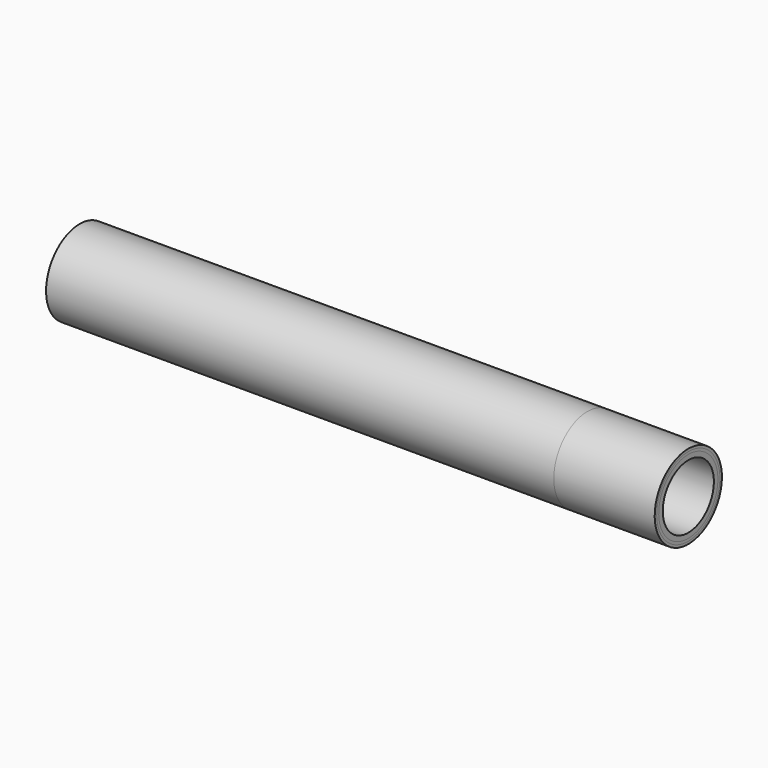
from build123d import *

# Parameters (mm, degrees)
CYLINDER001_R           = 9.5
CYLINDER001_DEPTH       = 156
CYLINDER001_PITCH_ANGLE = -90
CYLINDER_R              = 11
CYLINDER_DEPTH          = 156
CYLINDER_PITCH_ANGLE    = -90
CYLINDER004_R           = 9.5
CYLINDER004_DEPTH       = 25
CYLINDER004_PITCH_ANGLE = -90
CYLINDER003_R           = 11
CYLINDER003_DEPTH       = 156
CYLINDER003_PITCH_ANGLE = -90
CYLINDER002_R           = 12.5
CYLINDER002_DEPTH       = 181
CYLINDER002_PITCH_ANGLE = -90
CYLINDER006_R           = 11.75
CYLINDER006_DEPTH       = 30
CYLINDER006_PITCH_ANGLE = -90
CYLINDER005_R           = 12.5
CYLINDER005_DEPTH       = 30
CYLINDER005_PITCH_ANGLE = -90


with BuildPart() as obj1:
    # Cylinder001 → Cylinder001 (new body)
    with BuildSketch(Plane.XY):
        Circle(CYLINDER001_R)
    extrude(amount=CYLINDER001_DEPTH)


with BuildPart() as obj1_1:
    # Cylinder001 pitch: moved
    add(obj1.part.rotate(Axis((0, 0, 0), (0, 1, 0)), CYLINDER001_PITCH_ANGLE))


with BuildPart() as obj1_2:
    # Cylinder001 placement: moved
    add(obj1_1.part)


with BuildPart() as steeltube:
    # Cylinder → Cylinder (new body)
    with BuildSketch(Plane.XY):
        Circle(CYLINDER_R)
    extrude(amount=CYLINDER_DEPTH)


with BuildPart() as steeltube_1:
    # Cylinder pitch: moved
    add(steeltube.part.rotate(Axis((0, 0, 0), (0, 1, 0)), CYLINDER_PITCH_ANGLE))


with BuildPart() as steeltube_2:
    # Cylinder placement: moved
    add(steeltube_1.part)

    # Cut: cut obj1
    add(obj1_2.part, mode=Mode.SUBTRACT)


with BuildPart() as cylinder004:
    # Cylinder004 → Cylinder004 (new body)
    with BuildSketch(Plane.XY):
        Circle(CYLINDER004_R)
    extrude(amount=CYLINDER004_DEPTH)


with BuildPart() as cylinder004_1:
    # Cylinder004 pitch: moved
    add(cylinder004.part.rotate(Axis((0, 0, 0), (0, 1, 0)), CYLINDER004_PITCH_ANGLE))


with BuildPart() as cylinder004_2:
    # Cylinder004 placement: moved
    add(cylinder004_1.part.moved(Location((-156, 0, 0))))


with BuildPart() as cylinder003:
    # Cylinder003 → Cylinder003 (new body)
    with BuildSketch(Plane.XY):
        Circle(CYLINDER003_R)
    extrude(amount=CYLINDER003_DEPTH)


with BuildPart() as cylinder003_1:
    # Cylinder003 pitch: moved
    add(cylinder003.part.rotate(Axis((0, 0, 0), (0, 1, 0)), CYLINDER003_PITCH_ANGLE))


with BuildPart() as cylinder003_2:
    # Cylinder003 placement: moved
    add(cylinder003_1.part)


with BuildPart() as batterypart:
    # Cylinder002 → Cylinder002 (new body)
    with BuildSketch(Plane.XY):
        Circle(CYLINDER002_R)
    extrude(amount=CYLINDER002_DEPTH)


with BuildPart() as batterypart_1:
    # Cylinder002 pitch: moved
    add(batterypart.part.rotate(Axis((0, 0, 0), (0, 1, 0)), CYLINDER002_PITCH_ANGLE))


with BuildPart() as batterypart_2:
    # Cylinder002 placement: moved
    add(batterypart_1.part)

    # Cut001: cut Cylinder003
    add(cylinder003_2.part, mode=Mode.SUBTRACT)

    # Cut002: cut Cylinder004
    add(cylinder004_2.part, mode=Mode.SUBTRACT)


with BuildPart() as cylinder006:
    # Cylinder006 → Cylinder006 (new body)
    with BuildSketch(Plane.XY):
        Circle(CYLINDER006_R)
    extrude(amount=CYLINDER006_DEPTH)


with BuildPart() as cylinder006_1:
    # Cylinder006 pitch: moved
    add(cylinder006.part.rotate(Axis((0, 0, 0), (0, 1, 0)), CYLINDER006_PITCH_ANGLE))


with BuildPart() as cylinder006_2:
    # Cylinder006 placement: moved
    add(cylinder006_1.part)


with BuildPart() as cut003:
    # Cylinder005 → Cylinder005 (new body)
    with BuildSketch(Plane.XY):
        Circle(CYLINDER005_R)
    extrude(amount=CYLINDER005_DEPTH)


with BuildPart() as cut003_1:
    # Cylinder005 pitch: moved
    add(cut003.part.rotate(Axis((0, 0, 0), (0, 1, 0)), CYLINDER005_PITCH_ANGLE))


with BuildPart() as cut003_2:
    # Cylinder005 placement: moved
    add(cut003_1.part)

    # Cut003: cut Cylinder006
    add(cylinder006_2.part, mode=Mode.SUBTRACT)


solid = Compound([steeltube_2.part, batterypart_2.part, cut003_2.part])
